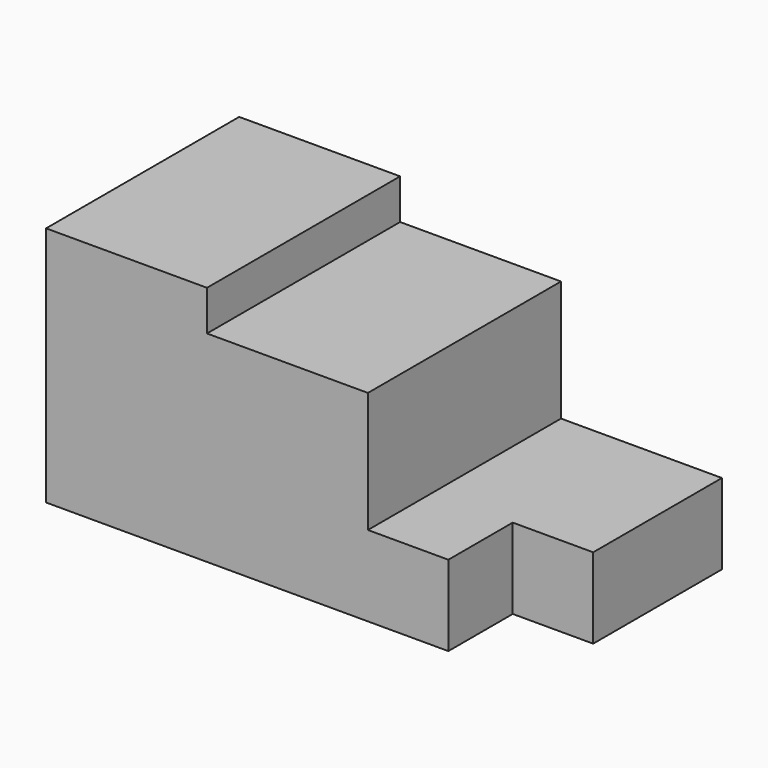
from build123d import *

# Parameters (mm, degrees)
F1_DEPTH = 30
F0_W     = 10
F0_H     = 10
F2_DEPTH = 20


with BuildPart() as f1:
    # F0 (on Front) → F1 (new body)
    with BuildSketch(Plane.XZ):
        Polygon((-60, 0), (-10, 0), (-10, 10), (-20, 10), (-20, 25), (-40, 25), (-40, 30), (-60, 30), align=None)
    extrude(amount=F1_DEPTH)

    # F0 (on Front) → F2 (join)
    with BuildSketch(Plane.XZ):
        with Locations((-5, 5)):
            Rectangle(F0_W, F0_H)
    extrude(amount=F2_DEPTH)


solid = f1.part
